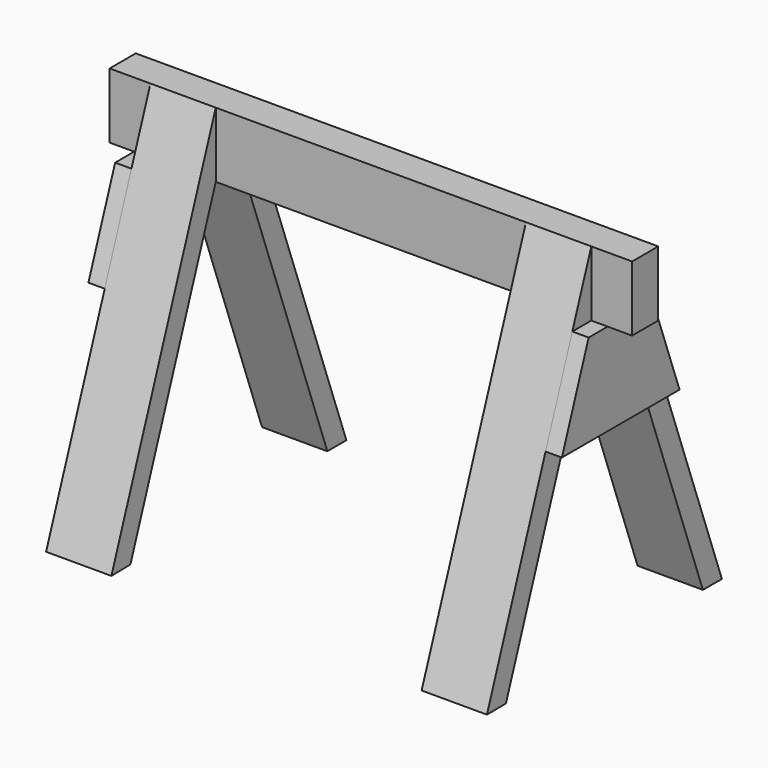
from build123d import *

# Parameters (mm, degrees)
F0_W     = 50.8
F0_H     = 101.6
F1_DEPTH = 63.5
F2_DEPTH = 101.6
F3_DEPTH = 685.8
F4_DEPTH = 25.4
F6_DEPTH = 101.6
F7_DEPTH = 63.5
F8_DEPTH = 25.4


with BuildPart() as f1:
    # F0 (on Right) → F1 (new body)
    with BuildSketch(Plane.YZ):
        with Locations((8.3857368908, -0.1843553036)):
            Rectangle(F0_W, F0_H)
    extrude(amount=F1_DEPTH)

    # F0 (on Right) → F3 (join)
    with BuildSketch(Plane.YZ):
        with Locations((8.3857368908, -0.1843553036)):
            Rectangle(F0_W, F0_H)
    extrude(amount=-F3_DEPTH)

    # F7 (add): a face of the model
    f7_faces = [f1.faces().sort_by_distance(p)[0] for p in [
        (-685.8, 8.3857368908, -0.1843553036),
    ]]
    extrude(f7_faces, amount=F7_DEPTH)


with BuildPart() as f2:
    # F0 (on Right) → F2 (new body)
    with BuildSketch(Plane.YZ):
        Polygon((70.7311914363, -50.9843553036), (33.7857368908, 50.6156446964), (33.7857368908, -50.9843553036), align=None)
        Polygon((122.8128342507, -194.2088730433), (85.8686692533, -194.2124193003), (199.9787119015, -508.0150365829), (236.9857368908, -508.1843553036), align=None)
        Polygon((70.7311914363, -50.9843553036), (33.7857368908, -50.9843553036), (85.8686692533, -194.2124193003), (122.8128342507, -194.2088730433), align=None)
        Polygon((70.7311914363, -50.9843553036), (33.7857368908, -50.9843553036), (85.8686692533, -194.2124193003), (122.8128342507, -194.2088730433), align=None)
    extrude(amount=-F2_DEPTH)


with BuildPart() as f2b:
    # F0 (on Right) → F2, piece 2 (new body)
    with BuildSketch(Plane.YZ):
        Polygon((-182.9889863729, -508.0150365829), (-69.0341977637, -194.2272883706), (-105.9324202058, -194.2308302176), (-219.9474121489, -508.1843553036), align=None)
        Polygon((-69.0341977637, -194.2272883706), (-17.0142631092, -50.9843553036), (-53.9111992982, -50.9843553036), (-105.9324202058, -194.2308302176), align=None)
        Polygon((-17.0142631092, -50.9843553036), (-17.0142631092, 50.6156446964), (-53.9111992982, -50.9843553036), align=None)
        Polygon((-69.0341977637, -194.2272883706), (-17.0142631092, -50.9843553036), (-53.9111992982, -50.9843553036), (-105.9324202058, -194.2308302176), align=None)
    extrude(amount=-F2_DEPTH)


with BuildPart() as f4:
    # F0 (on Right) → F4 (new body)
    with BuildSketch(Plane.YZ):
        Polygon((33.7857368908, -50.9843553036), (-17.0142631092, -50.9843553036), (-69.0341977637, -194.2272883706), (85.8686692533, -194.2124193003), align=None)
        Polygon((-69.0341977637, -194.2272883706), (-17.0142631092, -50.9843553036), (-53.9111992982, -50.9843553036), (-105.9324202058, -194.2308302176), align=None)
        Polygon((70.7311914363, -50.9843553036), (33.7857368908, -50.9843553036), (85.8686692533, -194.2124193003), (122.8128342507, -194.2088730433), align=None)
    extrude(amount=F4_DEPTH)


with BuildPart() as f6:
    # F5 (on face) → F6 (new body)
    with BuildSketch(Plane(origin=(-685.8, 0, 0), x_dir=(0, -1, 0), z_dir=(-1, 0, 0))):
        Polygon((53.9111994149, -50.9843553036), (17.0142631092, 50.6156446964), (17.0142631092, -50.9843553036), align=None)
        Polygon((53.9111994149, -50.9843553036), (17.0142631092, -50.9843553036), (69.0654225647, -194.2308301649), (105.9324204678, -194.2308301649), align=None)
        Polygon((105.9324204678, -194.2308301649), (69.0654225647, -194.2308301649), (182.904193447, -507.5188107205), (219.9473977089, -508.1843137741), align=None)
    extrude(amount=-F6_DEPTH)


with BuildPart() as f6b:
    # F5 (on face) → F6, piece 2 (new body)
    with BuildSketch(Plane(origin=(-685.8, 0, 0), x_dir=(0, -1, 0), z_dir=(-1, 0, 0))):
        Polygon((-33.7857368908, -50.9843553036), (-33.7857368908, 50.6156446964), (-70.7313324906, -50.9843553036), align=None)
        Polygon((-85.8481806419, -194.2308301649), (-33.7857368908, -50.9843553036), (-70.7313324906, -50.9843553036), (-122.8211585863, -194.2308301649), align=None)
        Polygon((-199.9530941248, -508.1831812859), (-85.8481806419, -194.2308301649), (-122.8211585863, -194.2308301649), (-122.9187960073, -194.4993320474), (-236.9860857725, -508.1831812859), align=None)
    extrude(amount=-F6_DEPTH)


with BuildPart() as f8:
    # F5 (on face) → F8 (new body)
    with BuildSketch(Plane(origin=(-685.8, 0, 0), x_dir=(0, -1, 0), z_dir=(-1, 0, 0))):
        Polygon((-12.7845484928, -194.2308301649), (-10.2110409268, -50.9843553036), (-33.7857368908, -50.9843553036), (-85.8481806419, -194.2308301649), align=None)
        Polygon((-85.8481806419, -194.2308301649), (-33.7857368908, -50.9843553036), (-70.7313324906, -50.9843553036), (-122.8211585863, -194.2308301649), align=None)
        Polygon((17.0142631092, -50.9843553036), (-10.2110409268, -50.9843553036), (-12.7845484928, -194.2308301649), (69.0654225647, -194.2308301649), align=None)
        Polygon((53.9111994149, -50.9843553036), (17.0142631092, -50.9843553036), (69.0654225647, -194.2308301649), (105.9324204678, -194.2308301649), align=None)
    extrude(amount=F8_DEPTH)


solid = Compound([f1.part, f2.part, f2b.part, f4.part, f6.part, f6b.part, f8.part])
